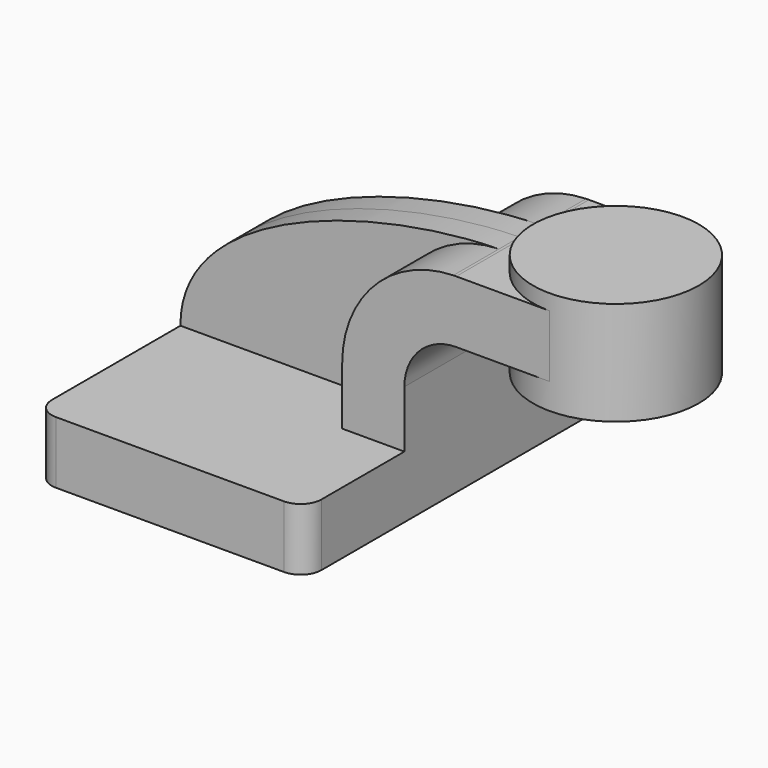
from build123d import *

# Parameters (mm, degrees)
F1_DEPTH = 63.5
F0_W     = 25.4
F0_H     = 19.05
F2_DEPTH = 25.4
F3_DEPTH = 7.9375
F5_R     = 6.35


with BuildPart() as f1:
    # F0 (on Front) → F1 (new body, symmetric)
    with BuildSketch(Plane.XZ):
        Polygon((-41.275, 9.525), (-41.275, -9.525), (41.275, -9.525), (41.275, 9.525), (22.225, 9.525), align=None)
    extrude(amount=F1_DEPTH, both=True)

    # F0 (on Front) → F2 (join, symmetric)
    with BuildSketch(Plane.XZ):
        with BuildLine():
            Line((22.225, 9.525), (41.275, 9.525))
            Line((41.275, 9.525), (41.275, 27.0002))
            ThreePointArc((41.275, 27.0002), (45.9246798487, 38.2255201513), (57.15, 42.8752))
            Line((57.15, 42.8752), (60.325, 42.8752))
            Line((60.325, 42.8752), (60.325, 61.9252))
            Line((60.325, 61.9252), (57.15, 61.9252))
            add(Edge.make_bspline(
                [(56.2705114217, 61.9141245122), (56.5648721965, 61.9188188137), (56.8580468, 61.9225108373), (57.15, 61.9252)],
                knots=[110.661908676, 110.661908676, 110.661908676, 110.661908676, 111.5045361635, 111.5045361635, 111.5045361635, 111.5045361635], degree=3))
            ThreePointArc((56.2705114217, 61.9141245122), (32.1452828091, 51.3829755434), (22.225, 27.0002))
            Line((22.225, 27.0002), (22.225, 9.525))
        make_face()
        with Locations((73.025, 52.4002)):
            Rectangle(F0_W, F0_H)
    extrude(amount=F2_DEPTH, both=True)

    # F0 (on Front) → F3 (join, symmetric)
    with BuildSketch(Plane.XZ):
        with BuildLine():
            add(Edge.make_bspline(
                [(-41.275, 9.525), (-41.504476051, 43.3943776693), (17.612236377, 61.2976238893), (56.2705114217, 61.9141245122)],
                knots=[0, 0, 0, 0, 110.661908676, 110.661908676, 110.661908676, 110.661908676], degree=3))
            Line((-41.275, 9.525), (22.225, 9.525))
            Line((22.225, 9.525), (22.225, 27.0002))
            ThreePointArc((22.225, 27.0002), (32.1452828091, 51.3829755434), (56.2705114217, 61.9141245122))
        make_face()
    extrude(amount=F3_DEPTH, both=True)

    # F5
    f5_edges = [f1.edges().sort_by_distance(p)[0] for p in [
        (-41.275, -63.5, 0),
        (41.275, -63.5, 0),
        (41.275, 63.5, 0),
        (-41.275, 63.5, 0),
    ]]
    fillet(f5_edges, radius=F5_R)


with BuildPart() as f4:
    # F0 (on Front) → F4 (revolve)
    with BuildSketch(Plane.XZ):
        Polygon((85.725, 66.675), (85.725, 61.9252), (85.725, 42.8752), (85.725, 34.925), (111.125, 34.925), (111.125, 66.675), align=None)
    revolve(axis=Axis((85.725, 0, 50.8), (0, 0, 1)))


solid = Compound([f1.part, f4.part])
